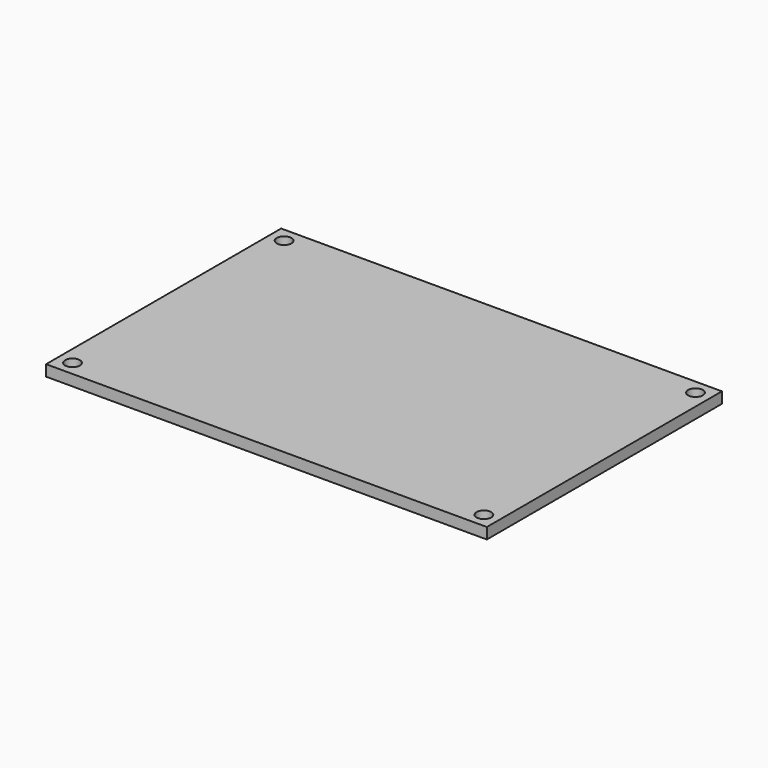
from build123d import *

# Parameters (mm, degrees)
F1_W     = 60
F1_H     = 40
F2_DEPTH = 1.5
F3_R     = 1
F4_DEPTH = 1.5


with BuildPart() as f2:
    # F1 (on Top) → F2 (new body)
    with BuildSketch(Plane.XY):
        Rectangle(F1_W, F1_H)
    extrude(amount=F2_DEPTH)

    # F3 (on face) → F4 (cut, through all)
    with BuildSketch(Plane.XY):
        with Locations((-28, 18)):
            Circle(F3_R)
        with Locations((28, 18)):
            Circle(F3_R)
        with Locations((28, -18)):
            Circle(F3_R)
        with Locations((-28, -18)):
            Circle(F3_R)
    extrude(amount=F4_DEPTH, mode=Mode.SUBTRACT)


solid = f2.part
